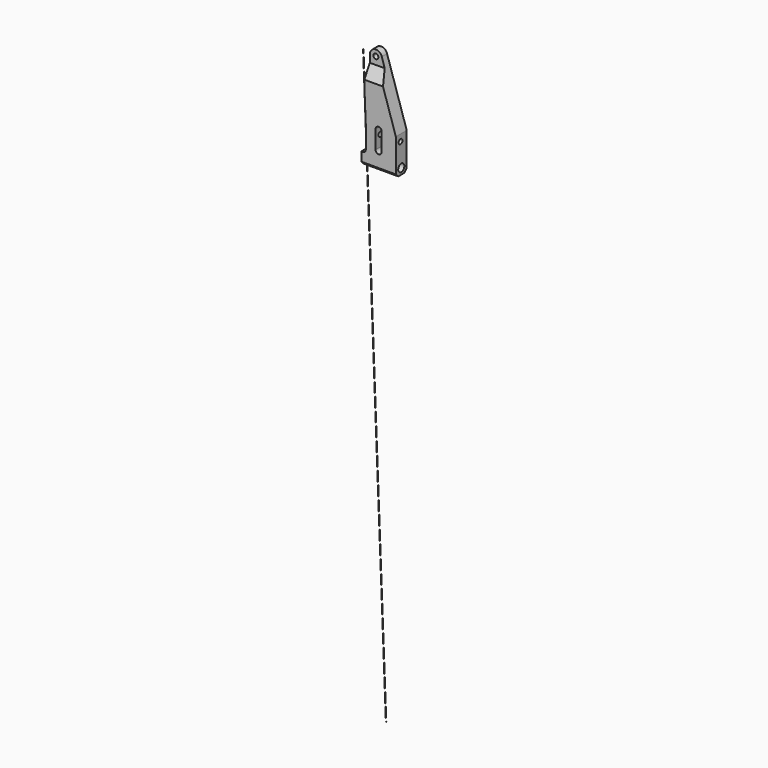
from build123d import *

# Parameters (mm, degrees)
F0_R      = 2.5
F1_DEPTH  = 45
F2_R      = 7.9375
F2_R_2    = 12.7
F3_DEPTH  = 114.301
F5_DEPTH  = 35
F7_DEPTH  = 114.301
F8_SIZE   = 10
F9_R      = 8.15
F10_DEPTH = 25
F10_TAPER = 5.72
F13_R     = 0.5
F14_DEPTH = 2000


with BuildPart() as f1:
    # F0 (on Front) → F1 (new body)
    with BuildSketch(Plane.XZ):
        with BuildLine():
            Line((0, 40), (0, 0))
            Line((0, 0), (114.3, 0))
            Line((114.3, 0), (114.3, 120))
            Line((114.3, 120), (49.3399335472, 322.0957796647))
            ThreePointArc((49.3399335472, 322.0957796647), (27.4308241539, 336.8342969493), (10, 317))
            Line((10, 317), (10, 237))
            Line((10, 237), (15, 120))
            Line((15, 120), (15, 50))
            ThreePointArc((15, 50), (12.0710678119, 42.9289321881), (5, 40))
            Line((5, 40), (0, 40))
        make_face()
        with BuildLine():
            ThreePointArc((57.15, 130), (64.2210678119, 127.0710678119), (67.15, 120))
            Line((67.15, 120), (67.15, 60))
            ThreePointArc((67.15, 60), (64.2210678119, 52.9289321881), (57.15, 50))
            ThreePointArc((57.15, 50), (50.0789321881, 52.9289321881), (47.15, 60))
            Line((47.15, 60), (47.15, 120))
            ThreePointArc((47.15, 120), (50.0789321881, 127.0710678119), (57.15, 130))
        make_face(mode=Mode.SUBTRACT)
        with Locations((30, 317)):
            Circle(F0_R, mode=Mode.SUBTRACT)
    extrude(amount=F1_DEPTH)

    # F2 (on face) → F3 (cut, through all)
    with BuildSketch(Plane.YZ.offset(114.3)):
        with Locations((-25.5, 97.5)):
            Circle(F2_R)
        with Locations((-22.5, 20)):
            Circle(F2_R_2)
    extrude(amount=-F3_DEPTH, mode=Mode.SUBTRACT)

    # F4 (on face) → F5 (cut)
    with BuildSketch(Plane(origin=(0, 0, 0), x_dir=(-1, 0, 0), z_dir=(0, 1, 0))):
        with BuildLine():
            Line((-48.4216344216, 253.0601220633), (-80.5648422415, 153.0601220633))
            ThreePointArc((-80.5648422415, 153.0601220633), (-79.1254456583, 144.1093812139), (-71.0445663549, 140))
            Line((-71.0445663549, 140), (-45.7471559309, 140))
            ThreePointArc((-45.7471559309, 140), (-38.828688156, 142.7795565477), (-35.7562748619, 149.5730392706))
            Line((-35.7562748619, 149.5730392706), (-31.4827705884, 249.5730392706))
            ThreePointArc((-31.4827705884, 249.5730392706), (-33.8223810432, 256.438793209), (-40.1875050962, 259.9169464566))
            ThreePointArc((-40.1875050962, 259.9169464566), (-45.300475796, 257.6844842559), (-48.4216344216, 253.0601220633))
        make_face()
    extrude(amount=-F5_DEPTH, mode=Mode.SUBTRACT)

    # F6 (on face) → F7 (cut, through all)
    with BuildSketch(Plane(origin=(0, 0, 0), x_dir=(0, -1, 0), z_dir=(-1, 0, 0))):
        Polygon((75.7247351185, 458.4947787785), (22, 458.4947787785), (22, 291.8342969493), (75.7247351185, 198.7803261009), align=None)
    extrude(amount=-F7_DEPTH, mode=Mode.SUBTRACT)

    # F8
    f8_edges = [f1.edges().sort_by_distance(p)[0] for p in [
        (57.15, 0, 0),
        (57.15, -45, 0),
    ]]
    chamfer(f8_edges, length=F8_SIZE)

    # F9 (on face) → F10 (cut)
    with BuildSketch(Plane.XZ.offset(22)):
        with Locations((30, 317)):
            Circle(F9_R)
    extrude(amount=-F10_DEPTH, taper=F10_TAPER, mode=Mode.SUBTRACT)

    # F13 (on line) → F14 (join)
    with BuildSketch(Plane(origin=(0, -15.8124107275, 335.3013597184), x_dir=(1, 0, 0), z_dir=(0, -0.0471064507, 0.998889875))):
        with Locations((0, -20.920984447)):
            Circle(F13_R)
    extrude(amount=-F14_DEPTH)


solid = f1.part
